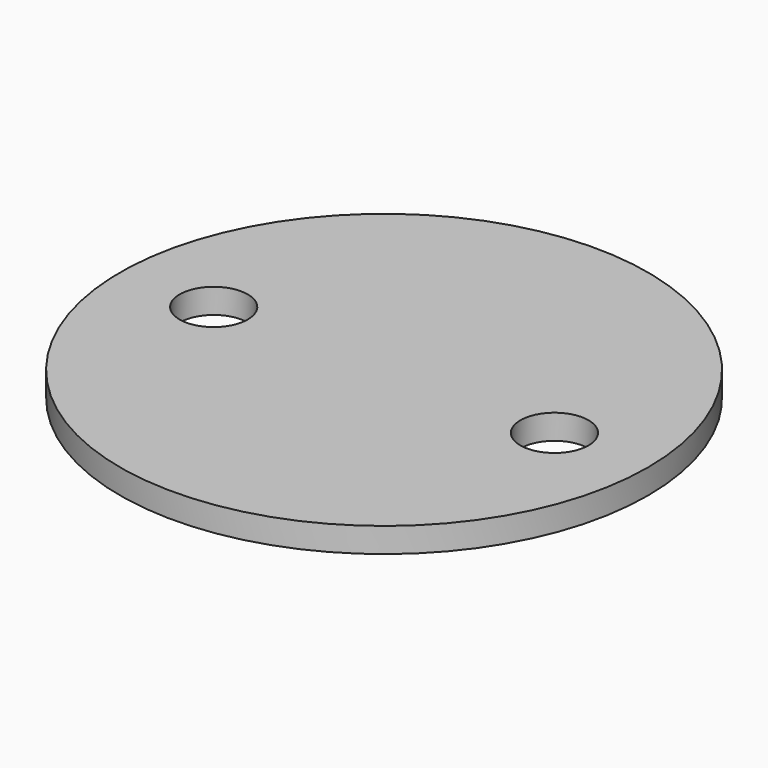
from build123d import *

# Parameters (mm, degrees)
SKETCH_R   = 27.051
SKETCH_R_2 = 3.4925
PAD_DEPTH  = 2.54


with BuildPart() as part:
    # Sketch → Pad (new body)
    with BuildSketch(Plane.XY):
        Circle(SKETCH_R)
        with Locations((-17.4625, 0)):
            Circle(SKETCH_R_2, mode=Mode.SUBTRACT)
        with Locations((17.4625, 0)):
            Circle(SKETCH_R_2, mode=Mode.SUBTRACT)
    extrude(amount=PAD_DEPTH)


solid = part.part
